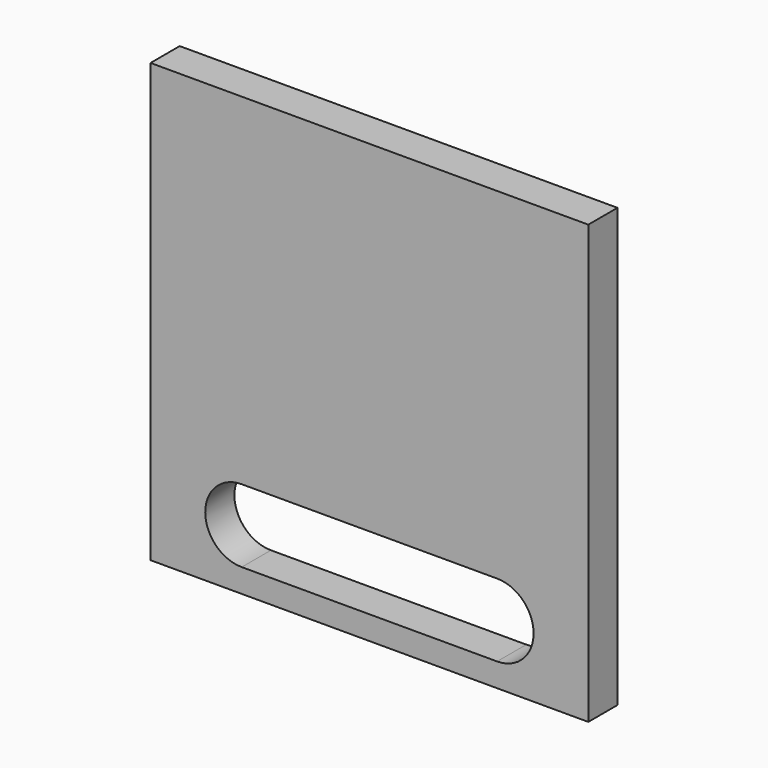
from build123d import *

# Parameters (mm, degrees)
F0_W     = 76.2
F0_H     = 76.2
F1_DEPTH = 3.175
F2_W     = 44.45
F2_H     = 12.7
F3_DEPTH = 6.35


with BuildPart() as f1:
    # F0 (on Front) → F1 (new body, symmetric)
    with BuildSketch(Plane.XZ):
        with Locations((0, 38.1)):
            Rectangle(F0_W, F0_H)
    extrude(amount=F1_DEPTH, both=True)

    # F2 (on face) → F3 (cut)
    with BuildSketch(Plane.XZ.offset(3.175)):
        with BuildLine():
            Line((-22.225, 4.1064423469), (-22.225, 16.8064423469))
            ThreePointArc((-22.225, 16.8064423469), (-28.575, 10.4564423469), (-22.225, 4.1064423469))
        make_face()
        with Locations((0, 10.4564423469)):
            Rectangle(F2_W, F2_H)
        with BuildLine():
            ThreePointArc((22.225, 4.1064423469), (28.575, 10.4564423469), (22.225, 16.8064423469))
            Line((22.225, 16.8064423469), (22.225, 4.1064423469))
        make_face()
    extrude(amount=-F3_DEPTH, mode=Mode.SUBTRACT)


solid = f1.part
